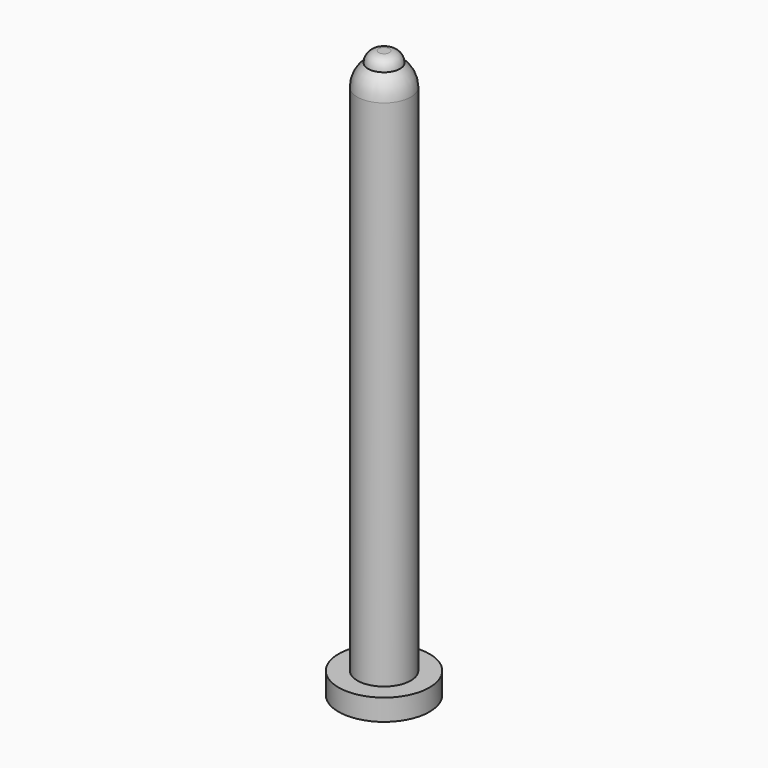
from build123d import *

# Parameters (mm, degrees)
F0_R     = 8.5
F1_DEPTH = 4
F2_R     = 5
F3_DEPTH = 100


with BuildPart() as f1:
    # F0 (on Top) → F1 (new body)
    with BuildSketch(Plane.XY):
        Circle(F0_R)
    extrude(amount=F1_DEPTH)

    # F2 (on Top) → F3 (join)
    with BuildSketch(Plane.XY):
        Circle(F2_R)
    extrude(amount=F3_DEPTH)

    # F4 (on Right) → F5 (revolve)
    with BuildSketch(Plane.YZ):
        with BuildLine():
            Line((0, 104), (0, 100))
            Line((0, 100), (5, 100))
            ThreePointArc((5, 100), (4.472136, 102.236068), (3, 104))
            Line((3, 104), (0, 104))
        make_face()
        with BuildLine():
            ThreePointArc((0, 105), (1.581139, 104.743416), (3, 104))
            ThreePointArc((3, 104), (2.414214, 105.414214), (1, 106))
            Line((1, 106), (0, 106))
            Line((0, 106), (0, 105))
        make_face()
        with BuildLine():
            Line((0, 105), (0, 104))
            Line((0, 104), (3, 104))
            ThreePointArc((3, 104), (1.581139, 104.743416), (0, 105))
        make_face()
    revolve(axis=Axis((0, 0, 103), (0, 0, -1)))


solid = f1.part
